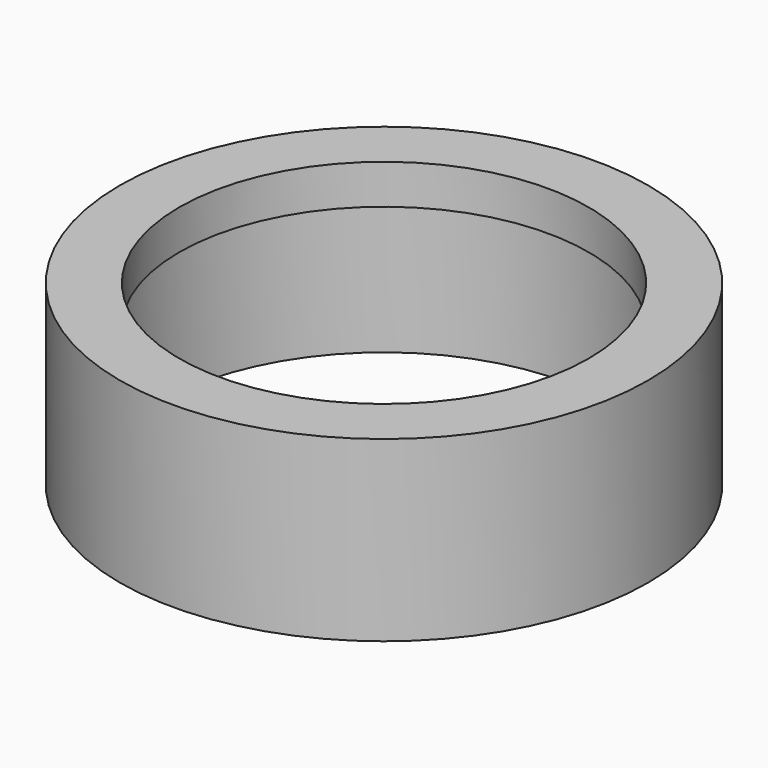
from build123d import *

# Parameters (mm, degrees)
F0_R     = 66.75
F0_R_2   = 56.75
F1_DEPTH = 45
F2_R     = 66.75
F2_R_2   = 56.75
F2_R_3   = 51.75
F3_DEPTH = 10
F6_DEPTH = 30


with BuildPart() as f1:
    # F0 (on Top) → F1 (new body)
    with BuildSketch(Plane.XY):
        Circle(F0_R)
        Circle(F0_R_2, mode=Mode.SUBTRACT)
    extrude(amount=F1_DEPTH)

    # F2 (on face) → F3 (join)
    with BuildSketch(Plane.XY.offset(45)):
        Circle(F2_R)
        Circle(F2_R_2, mode=Mode.SUBTRACT)
        Circle(F2_R_2)
        Circle(F2_R_3, mode=Mode.SUBTRACT)
    extrude(amount=-F3_DEPTH)

    # F5 (on Top) → F6 (cut)
    with BuildSketch(Plane.XY):
        with BuildLine():
            ThreePointArc((-1.8982756668, 61.7208153664), (0, 61.75), (1.8982756668, 61.7208153664))
            ThreePointArc((1.8982756668, 61.7208153664), (1.8984439159, 61.7354072521), (1.8985, 61.75))
            ThreePointArc((1.8985, 61.75), (-0.0145927479, 63.6484439159), (-1.8982756668, 61.7208153664))
        make_face()
        with BuildLine():
            ThreePointArc((-1.8982756668, 61.7208153664), (0, 59.8515), (1.8982756668, 61.7208153664))
            ThreePointArc((1.8982756668, 61.7208153664), (0, 61.75), (-1.8982756668, 61.7208153664))
        make_face()
        with BuildLine():
            ThreePointArc((61.7208153664, 1.8982756668), (61.7427034105, 0.94925), (61.75, 0))
            ThreePointArc((61.75, 0), (61.7427034105, -0.94925), (61.7208153664, -1.8982756668))
            ThreePointArc((61.7208153664, -1.8982756668), (63.0820839356, -1.3527211976), (63.6485, 0))
            ThreePointArc((63.6485, 0), (63.0820839356, 1.3527211976), (61.7208153664, 1.8982756668))
        make_face()
        with BuildLine():
            ThreePointArc((61.7208153664, -1.8982756668), (61.7427034105, -0.94925), (61.75, 0))
            ThreePointArc((61.75, 0), (61.7427034105, 0.94925), (61.7208153664, 1.8982756668))
            ThreePointArc((61.7208153664, 1.8982756668), (59.8515, 0), (61.7208153664, -1.8982756668))
        make_face()
        with BuildLine():
            ThreePointArc((1.8985, -61.75), (1.8984439159, -61.7354072521), (1.8982756668, -61.7208153664))
            ThreePointArc((1.8982756668, -61.7208153664), (0, -61.75), (-1.8982756668, -61.7208153664))
            ThreePointArc((-1.8982756668, -61.7208153664), (-0.0145927479, -63.6484439159), (1.8985, -61.75))
        make_face()
        with BuildLine():
            ThreePointArc((-1.8982756668, -61.7208153664), (0, -61.75), (1.8982756668, -61.7208153664))
            ThreePointArc((1.8982756668, -61.7208153664), (0, -59.8515), (-1.8982756668, -61.7208153664))
        make_face()
        with BuildLine():
            ThreePointArc((-59.8515, 0), (-60.3972788024, 1.3320839356), (-61.7208153664, 1.8982756668))
            ThreePointArc((-61.7208153664, 1.8982756668), (-61.75, 0), (-61.7208153664, -1.8982756668))
            ThreePointArc((-61.7208153664, -1.8982756668), (-60.3972788024, -1.3320839356), (-59.8515, 0))
        make_face()
        with BuildLine():
            ThreePointArc((-61.7208153664, -1.8982756668), (-61.75, 0), (-61.7208153664, 1.8982756668))
            ThreePointArc((-61.7208153664, 1.8982756668), (-63.6485, 0), (-61.7208153664, -1.8982756668))
        make_face()
    extrude(amount=F6_DEPTH, mode=Mode.SUBTRACT)


solid = f1.part
